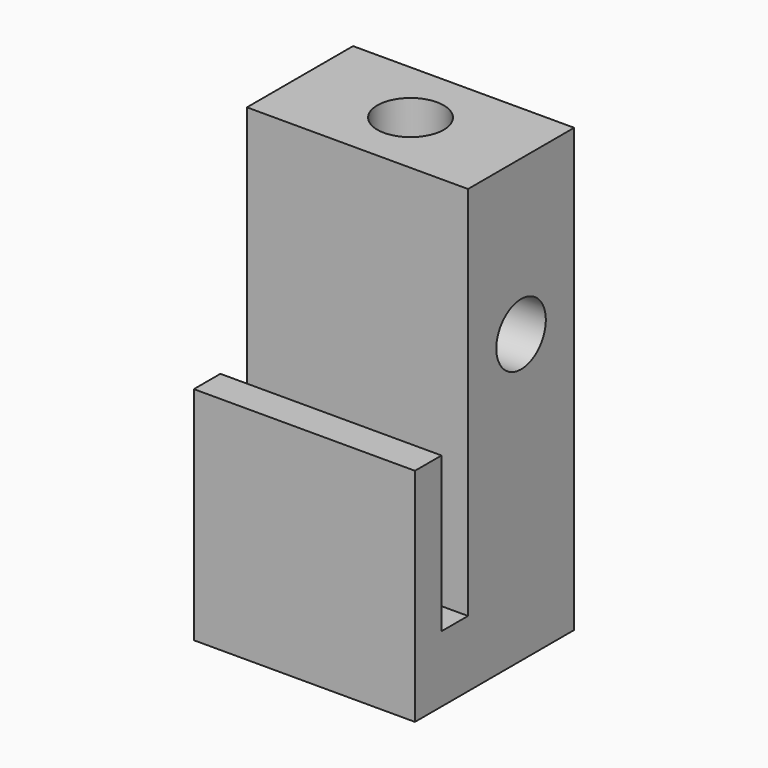
from build123d import *

# Parameters (mm, degrees)
SKETCH_W        = 10
SKETCH_H        = 6
PAD_DEPTH       = 20
SKETCH001_R     = 1.5
POCKET_DEPTH    = 20.001
SKETCH002_W     = 10
SKETCH002_H     = 0.01
POCKET001_DEPTH = 20.001
SKETCH003_W     = 10
SKETCH003_H     = 10
PAD001_DEPTH    = 3
SKETCH004_W     = 1.5
SKETCH004_H     = 7
POCKET002_DEPTH = 10.001
SKETCH005_R     = 1.4
POCKET003_DEPTH = 5


with BuildPart() as part:
    # Sketch → Pad (new body)
    with BuildSketch(Plane.XY):
        Rectangle(SKETCH_W, SKETCH_H)
    extrude(amount=PAD_DEPTH)

    # Sketch001 (on Face6 of Pad) → Pocket (cut, through all)
    with BuildSketch(Plane.XY.offset(20)):
        Circle(SKETCH001_R)
    extrude(amount=-POCKET_DEPTH, mode=Mode.SUBTRACT)

    # Sketch002 (on Face5 of Pocket) → Pocket001 (cut, through all)
    with BuildSketch(Plane.XY.offset(20)):
        with Locations((0, 3.005)):
            Rectangle(SKETCH002_W, SKETCH002_H)
    extrude(amount=-POCKET001_DEPTH, mode=Mode.SUBTRACT)

    # Sketch003 (on Face1 of Pocket001) → Pad001 (join)
    with BuildSketch(Plane.XZ.offset(3)):
        with Locations((0, 5)):
            Rectangle(SKETCH003_W, SKETCH003_H)
    extrude(amount=PAD001_DEPTH)

    # Sketch004 (on Face6 of Pad001) → Pocket002 (cut, through all)
    with BuildSketch(Plane.YZ.offset(5)):
        with Locations((-3.75, 6.5)):
            Rectangle(SKETCH004_W, SKETCH004_H)
    extrude(amount=-POCKET002_DEPTH, mode=Mode.SUBTRACT)

    # Sketch005 (on Face3 of Pocket002) → Pocket003 (cut)
    with BuildSketch(Plane.YZ.offset(5)):
        with Locations((0, 13)):
            Circle(SKETCH005_R)
    extrude(amount=-POCKET003_DEPTH, mode=Mode.SUBTRACT)


solid = part.part
